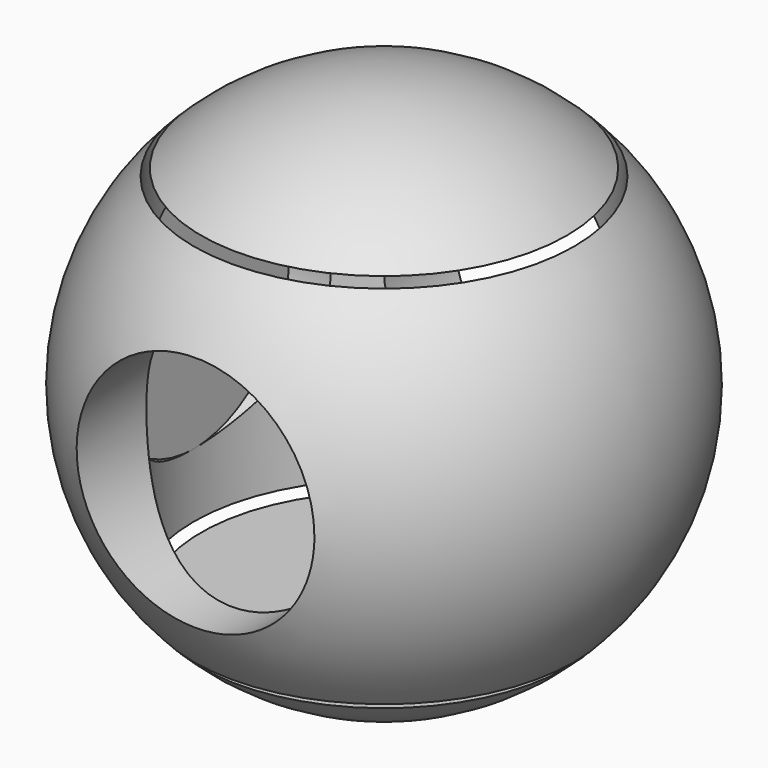
from build123d import *

# Parameters (mm, degrees)
F2_R     = 12.5
F3_DEPTH = 508
F4_R     = 12.5
F5_DEPTH = 20
F6_R     = 20
F7_DEPTH = 20
F8_R     = 12.5
F9_DEPTH = 20


with BuildPart() as f1:
    # F0 (on Front) → F1 (revolve)
    with BuildSketch(Plane.XZ):
        with BuildLine():
            Line((0, 27.75), (0, -27.75))
            ThreePointArc((0, -27.75), (27.75, 0), (0, 27.75))
        make_face()
    revolve(axis=Axis((0, 0, 0), (0, 0, -1)))

    # F2 (on Front) → F3 (cut, symmetric)
    with BuildSketch(Plane.XZ):
        Circle(F2_R)
    extrude(amount=F3_DEPTH, both=True, mode=Mode.SUBTRACT)

    # F4 (on Top) → F5 (cut, symmetric)
    with BuildSketch(Plane.XY):
        Circle(F4_R)
    extrude(amount=F5_DEPTH, both=True, mode=Mode.SUBTRACT)

    # F6 (on Top) → F7 (cut, symmetric)
    with BuildSketch(Plane.XY):
        Circle(F6_R)
    extrude(amount=F7_DEPTH, both=True, mode=Mode.SUBTRACT)

    # F8 (on Right) → F9 (cut, symmetric)
    with BuildSketch(Plane.YZ):
        Circle(F8_R)
    extrude(amount=F9_DEPTH, both=True, mode=Mode.SUBTRACT)


solid = f1.part
